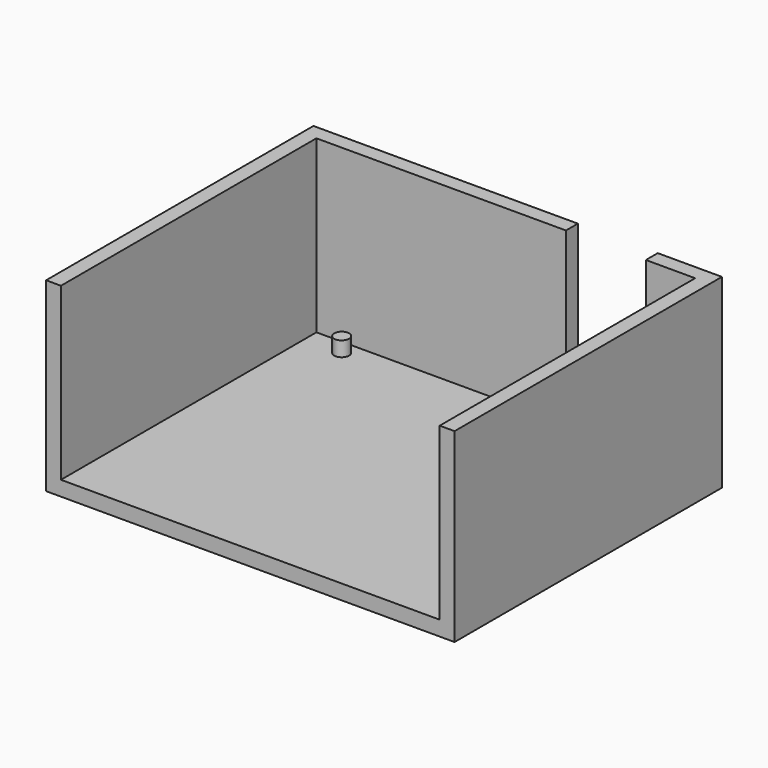
from build123d import *

# Parameters (mm, degrees)
SKETCH_W        = 55
SKETCH_H        = 45
PAD_DEPTH       = 25
SKETCH001_W     = 51
SKETCH001_H     = 47.679478
POCKET_DEPTH    = 23
SKETCH002_R     = 1
PAD001_DEPTH    = 2
SKETCH003_W     = 10.76
SKETCH003_H     = 25.903362
POCKET001_DEPTH = 5


with BuildPart() as part:
    # Sketch → Pad (new body)
    with BuildSketch(Plane.XY):
        with Locations((-13.992789, -11.907131)):
            Rectangle(SKETCH_W, SKETCH_H)
    extrude(amount=PAD_DEPTH)

    # Sketch001 → Pocket (cut)
    with BuildSketch(Plane.XY.offset(25)):
        with Locations((-13.992789, -15.24687)):
            Rectangle(SKETCH001_W, SKETCH001_H)
    extrude(amount=-POCKET_DEPTH, mode=Mode.SUBTRACT)

    # Sketch002 → Pad001 (new body)
    with BuildSketch(Plane.XY.offset(2)):
        with Locations((-34.492789, 6.592869)):
            Circle(SKETCH002_R)
        with Locations((5.507211, -23.907131)):
            Circle(SKETCH002_R)
    extrude(amount=PAD001_DEPTH)

    # Sketch003 → Pocket001 (cut)
    with BuildSketch(Plane.XZ.offset(-8.592869)):
        with Locations((-0.512789, 14.951681)):
            Rectangle(SKETCH003_W, SKETCH003_H)
    extrude(amount=-POCKET001_DEPTH, mode=Mode.SUBTRACT)


solid = part.part
